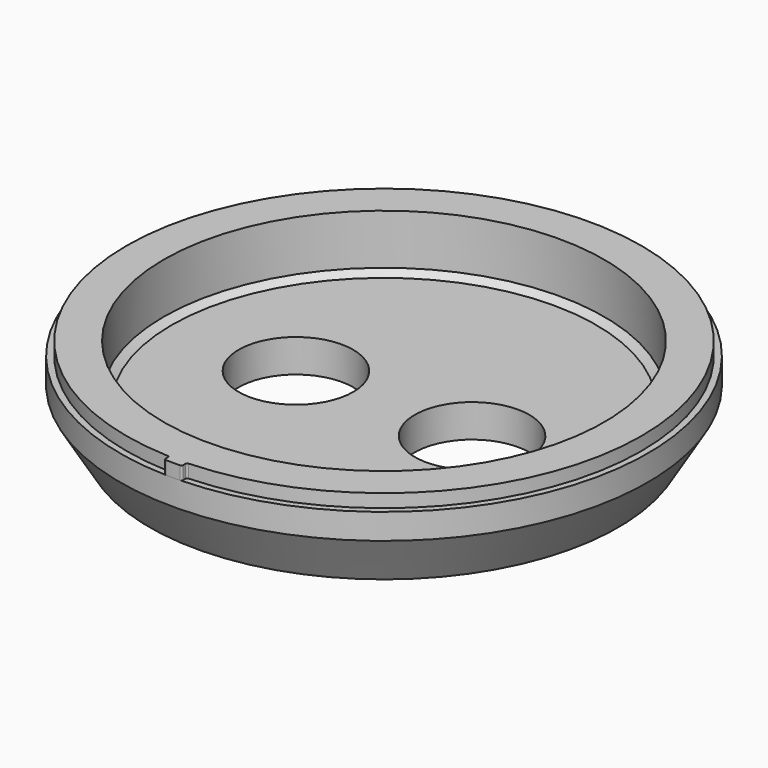
from build123d import *

# Parameters (mm, degrees)
F2_R     = 8.255
F3_DEPTH = 25.4
F5_DEPTH = 1.905
F6_R     = 0.254


with BuildPart() as f1:
    # F0 (on Front) → F1 (revolve)
    with BuildSketch(Plane.XZ):
        Polygon((-33.775879, 0), (0, 0), (0, 4.7625), (-30.608637, 4.7625), (-31.75, 5.4483), (-31.75, 12.7), (-37.1348, 12.7), (-37.1348, 10.795), (-38.0492, 10.795), (-38.0492, 7.112), align=None)
    revolve(axis=Axis((0, 0, 2.38125), (0, 0, 1)))

    # F2 (on face) → F3 (cut)
    with BuildSketch(Plane.XY.offset(4.7625)):
        with Locations((-12.7, 0)):
            Circle(F2_R)
        with Locations((12.7, 0)):
            Circle(F2_R)
    extrude(amount=-F3_DEPTH, mode=Mode.SUBTRACT)

    # F4 (on face) → F5 (join, through all)
    with BuildSketch(Plane.XY.offset(12.7)):
        with BuildLine():
            ThreePointArc((1.27, -37.113077), (0, -37.1348), (-1.27, -37.113077))
            Line((-1.27, -37.113077), (-1.27, -38.027999))
            ThreePointArc((-1.27, -38.027999), (0, -38.0492), (1.27, -38.027999))
            Line((1.27, -38.027999), (1.27, -37.113077))
        make_face()
    extrude(amount=-F5_DEPTH)

    # F6
    f6_edges = [f1.edges().sort_by_distance(p)[0] for p in [
        (1.27, -37.113077, 11.7475),
        (1.27, -38.027999, 11.7475),
        (-1.27, -38.027999, 11.7475),
        (-1.27, -37.113077, 11.7475),
    ]]
    fillet(f6_edges, radius=F6_R)


solid = f1.part
